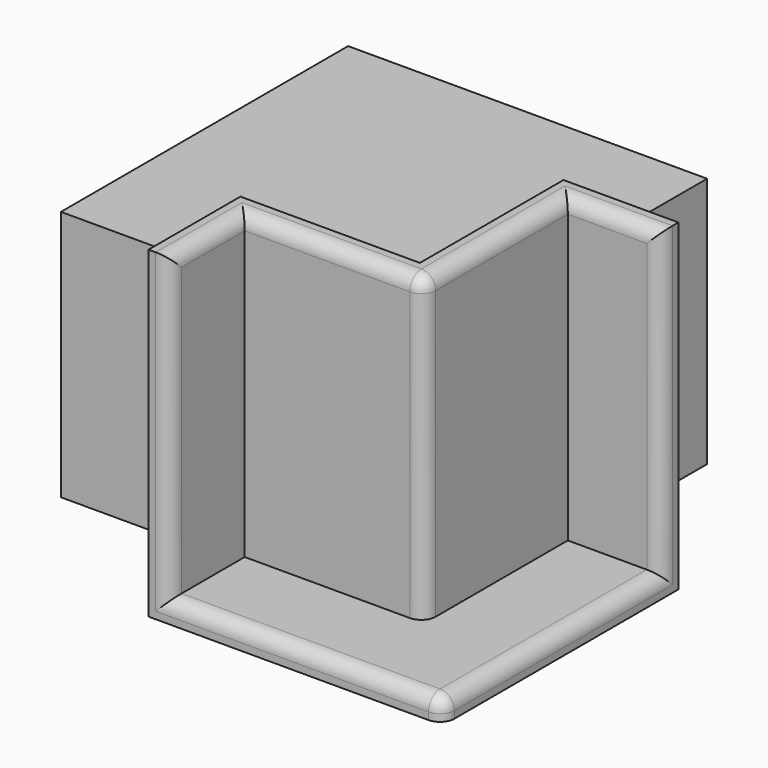
from build123d import *

# Parameters (mm, degrees)
F1_DEPTH = 35
F2_DEPTH = 45
F3_DEPTH = 3
F4_R     = 2


with BuildPart() as f1:
    # F0 (on Top) → F1 (new body)
    with BuildSketch(Plane.XY):
        Polygon((50, 0), (0, 0), (0, -50), (25, -50), (28, -50), (50, -50), (50, -28), (50, -25), align=None)
    extrude(amount=F1_DEPTH)

    # F0 (on Top) → F2 (join)
    with BuildSketch(Plane.XY):
        Polygon((28, -50), (25, -50), (25, -66), (28, -66), (28, -53), align=None)
        Polygon((66, -25), (50, -25), (50, -28), (53, -28), (66, -28), align=None)
        Polygon((53, -28), (50, -28), (50, -50), (28, -50), (28, -53), (53, -53), align=None)
    extrude(amount=F2_DEPTH)

    # F0 (on Top) → F3 (join)
    with BuildSketch(Plane.XY):
        Polygon((50, 0), (0, 0), (0, -50), (25, -50), (28, -50), (50, -50), (50, -28), (50, -25), align=None)
        Polygon((66, -25), (50, -25), (50, -28), (53, -28), (66, -28), align=None)
        Polygon((28, -50), (25, -50), (25, -66), (28, -66), (28, -53), align=None)
        Polygon((66, -28), (53, -28), (53, -53), (28, -53), (28, -66), (66, -66), align=None)
    extrude(amount=F3_DEPTH)

    # F4
    f4_edges = [f1.edges().sort_by_distance(p)[0] for p in [
        (47, -66, 3),
        (66, -47, 3),
        (66, -66, 1.5),
        (53, -53, 24),
        (40.5, -53, 45),
        (28, -59.5, 45),
        (53, -40.5, 45),
        (59.5, -28, 45),
        (66, -28, 24),
        (28, -66, 24),
    ]]
    fillet(f4_edges, radius=F4_R)


solid = f1.part
